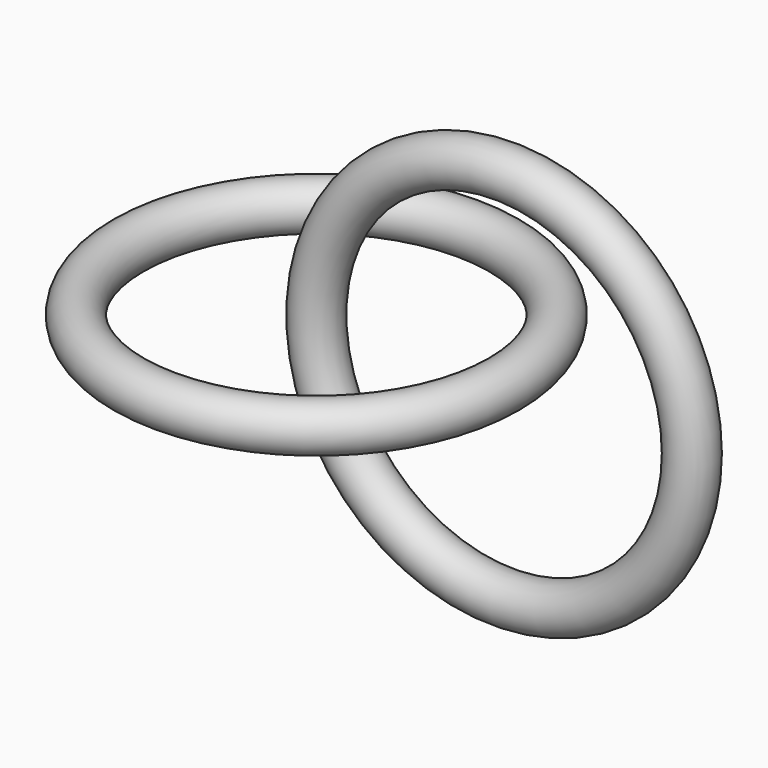
from build123d import *

# Parameters (mm, degrees)
F1_R = 1.5875
F3_R = 1.5875


with BuildPart() as f4:
    # F4: sweep along a path in F3
    with BuildLine(Plane.XZ) as f4_path:
        CenterArc((12.7, 0), 12.7, 0, 360)
    # F1 (on Top) → F4 (sweep)
    with BuildSketch(Plane.XY):
        Circle(F1_R)
    sweep(path=f4_path.line)


with BuildPart() as f5:
    # F5: sweep along a path in F0
    with BuildLine(Plane.XY) as f5_path:
        CenterArc((0, 0), 12.7, 0, 360)
    # F3 (on Front) → F5 (sweep)
    with BuildSketch(Plane.XZ):
        with Locations((12.7, 0)):
            Circle(F3_R)
    sweep(path=f5_path.line)


solid = Compound([f4.part, f5.part])
